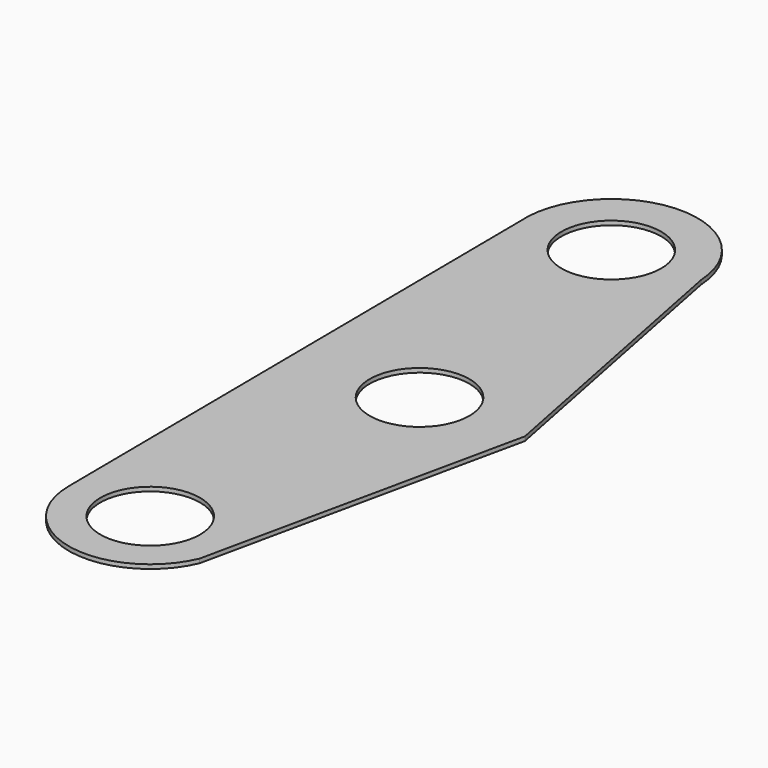
from build123d import *

# Parameters (mm, degrees)
F0_R     = 3.048
F1_DEPTH = 0.254


with BuildPart() as f1:
    # F0 (on Top) → F1 (new body)
    with BuildSketch(Plane.XY):
        with BuildLine():
            Line((73.117204, 0), (69.577835, 17.902064))
            ThreePointArc((69.577835, 17.902064), (63.973124, 22.891823), (59.037163, 17.239675))
            Line((59.037163, 17.239675), (59.327711, -17.662675))
            ThreePointArc((59.327711, -17.662675), (63.328392, -22.501413), (68.882275, -19.573408))
            Line((68.882275, -19.573408), (73.117204, 0))
        make_face()
        with Locations((64.304333, -17.621247)):
            Circle(F0_R, mode=Mode.SUBTRACT)
        with Locations((66.675, 0)):
            Circle(F0_R, mode=Mode.SUBTRACT)
        with Locations((64.304333, 17.621247)):
            Circle(F0_R, mode=Mode.SUBTRACT)
    extrude(amount=F1_DEPTH)


solid = f1.part
